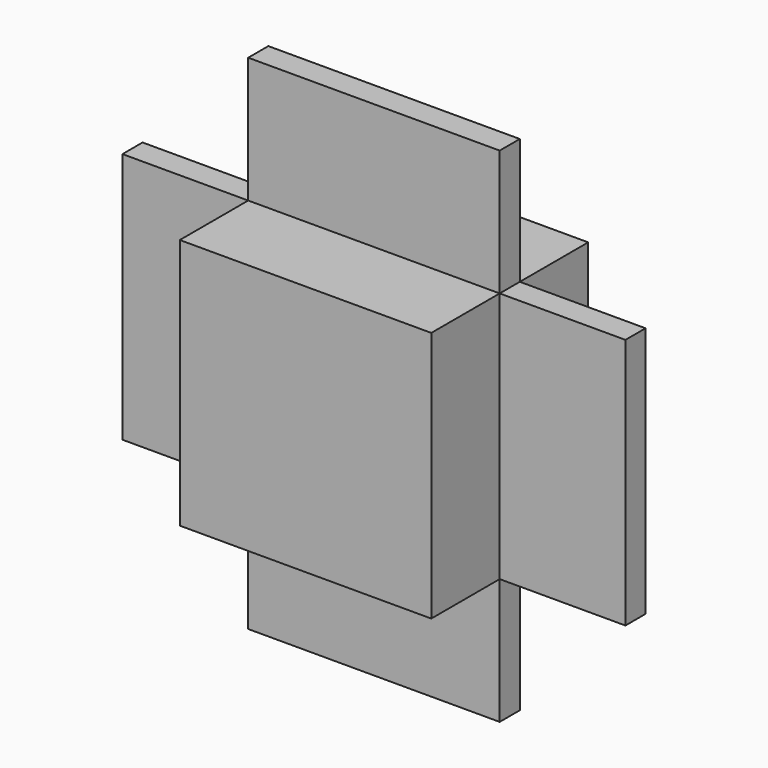
from build123d import *

# Parameters (mm, degrees)
F1_DEPTH = 12.7
F0_W     = 254
F0_H     = 254
F2_DEPTH = 99.06


with BuildPart() as f1:
    # F0 (on Front) → F1 (new body, symmetric)
    with BuildSketch(Plane.XZ):
        Polygon((-127, 254), (-127, 127), (127, 127), (127, 254), (0, 254), align=None)
        Polygon((-254, 127), (-254, 0), (-254, -127), (-127, -127), (-127, 127), align=None)
        Polygon((127, -127), (-127, -127), (-127, -254), (0, -254), (127, -254), align=None)
        Polygon((254, 127), (127, 127), (127, -127), (254, -127), (254, 0), align=None)
    extrude(amount=F1_DEPTH, both=True)


with BuildPart() as f2:
    # F0 (on Front) → F2 (new body, symmetric)
    with BuildSketch(Plane.XZ):
        Rectangle(F0_W, F0_H)
    extrude(amount=F2_DEPTH, both=True)


solid = Compound([f1.part, f2.part])
